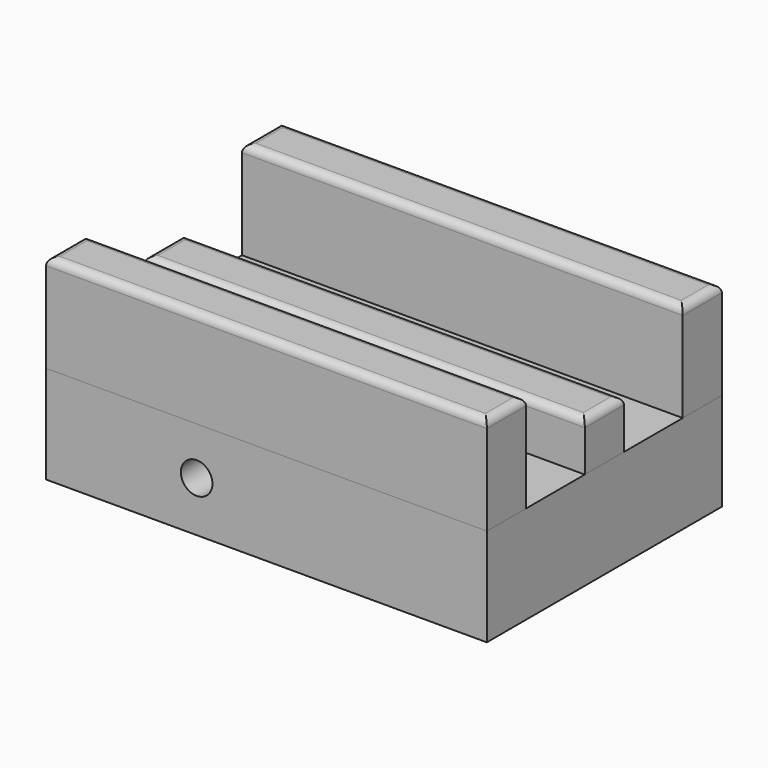
from build123d import *

# Parameters (mm, degrees)
BOX_W           = 57.15
BOX_H           = 38.1
BOX_DEPTH       = 12.7
SKETCH_R        = 1.239606
SKETCH_R_2      = 1.219716
POCKET_DEPTH    = 6.35
SKETCH001_R     = 1.849275
POCKET001_DEPTH = 29.21
SKETCH002_R     = 2.044943
POCKET002_DEPTH = 38.1
SKETCH003_R     = 1.489765
POCKET003_DEPTH = 6.35
BOX001_W        = 57.15
BOX001_H        = 6.35
BOX001_DEPTH    = 12.7
FILLET_R        = 1
BOX002_W        = 57.15
BOX002_H        = 6.35
BOX002_DEPTH    = 12.7
FILLET001_R     = 1
BOX003_W        = 57.15
BOX003_H        = 6.35
BOX003_DEPTH    = 6.35
FILLET002_R     = 1


with BuildPart() as pocket003:
    # Box → Box (new body)
    with BuildSketch(Plane.XY):
        with Locations((28.575, 19.05)):
            Rectangle(BOX_W, BOX_H)
    extrude(amount=BOX_DEPTH)

    # Sketch → Pocket (cut)
    with BuildSketch(Plane.XY.offset(12.7)):
        with Locations((28.475851, 12.993941)):
            Circle(SKETCH_R)
        with Locations((28.475851, 24.804882)):
            Circle(SKETCH_R_2)
    extrude(amount=-POCKET_DEPTH, mode=Mode.SUBTRACT)

    # Sketch001 → Pocket001 (cut)
    with BuildSketch(Plane(origin=(0, 38.1, 0), x_dir=(-1, 0, 0), z_dir=(0, 1, 0))):
        with Locations((-28.477482, 6.524108)):
            Circle(SKETCH001_R)
    extrude(amount=-POCKET001_DEPTH, mode=Mode.SUBTRACT)

    # Sketch002 → Pocket002 (cut)
    with BuildSketch(Plane(origin=(0, 38.1, 0), x_dir=(-1, 0, 0), z_dir=(0, 1, 0))):
        with Locations((-19.524696, 6.524108)):
            Circle(SKETCH002_R)
    extrude(amount=-POCKET002_DEPTH, mode=Mode.SUBTRACT)

    # Sketch003 → Pocket003 (cut)
    with BuildSketch(Plane(origin=(0, 0, 0), x_dir=(1, 0, 0), z_dir=(0, 0, -1))):
        with Locations((28.500566, -20.135597)):
            Circle(SKETCH003_R)
    extrude(amount=-POCKET003_DEPTH, mode=Mode.SUBTRACT)


with BuildPart() as fillet_body:
    # Box001 → Box001 (new body)
    with BuildSketch(Plane.XY.offset(12.7)):
        with Locations((28.575, 3.175)):
            Rectangle(BOX001_W, BOX001_H)
    extrude(amount=BOX001_DEPTH)

    # Fillet
    fillet_edges = [fillet_body.edges().sort_by_distance(p)[0] for p in [
        (0, 3.175, 25.4),
        (57.15, 3.175, 25.4),
        (28.575, 0, 25.4),
        (28.575, 6.35, 25.4),
    ]]
    fillet(fillet_edges, radius=FILLET_R)


with BuildPart() as fillet001:
    # Box002 → Box002 (new body)
    with BuildSketch(Plane(origin=(0, 31.75, 12.7), x_dir=(1, 0, 0), z_dir=(0, 0, 1))):
        with Locations((28.575, 3.175)):
            Rectangle(BOX002_W, BOX002_H)
    extrude(amount=BOX002_DEPTH)

    # Fillet001
    fillet001_edges = [fillet001.edges().sort_by_distance(p)[0] for p in [
        (0, 34.925, 25.4),
        (57.15, 34.925, 25.4),
        (28.575, 31.75, 25.4),
        (28.575, 38.1, 25.4),
    ]]
    fillet(fillet001_edges, radius=FILLET001_R)


with BuildPart() as fillet002:
    # Box003 → Box003 (new body)
    with BuildSketch(Plane(origin=(0, 15.875, 12.7), x_dir=(1, 0, 0), z_dir=(0, 0, 1))):
        with Locations((28.575, 3.175)):
            Rectangle(BOX003_W, BOX003_H)
    extrude(amount=BOX003_DEPTH)

    # Fillet002
    fillet002_edges = [fillet002.edges().sort_by_distance(p)[0] for p in [
        (0, 19.05, 19.05),
        (57.15, 19.05, 19.05),
        (28.575, 15.875, 19.05),
        (28.575, 22.225, 19.05),
    ]]
    fillet(fillet002_edges, radius=FILLET002_R)


solid = Compound([pocket003.part, fillet_body.part, fillet001.part, fillet002.part])
